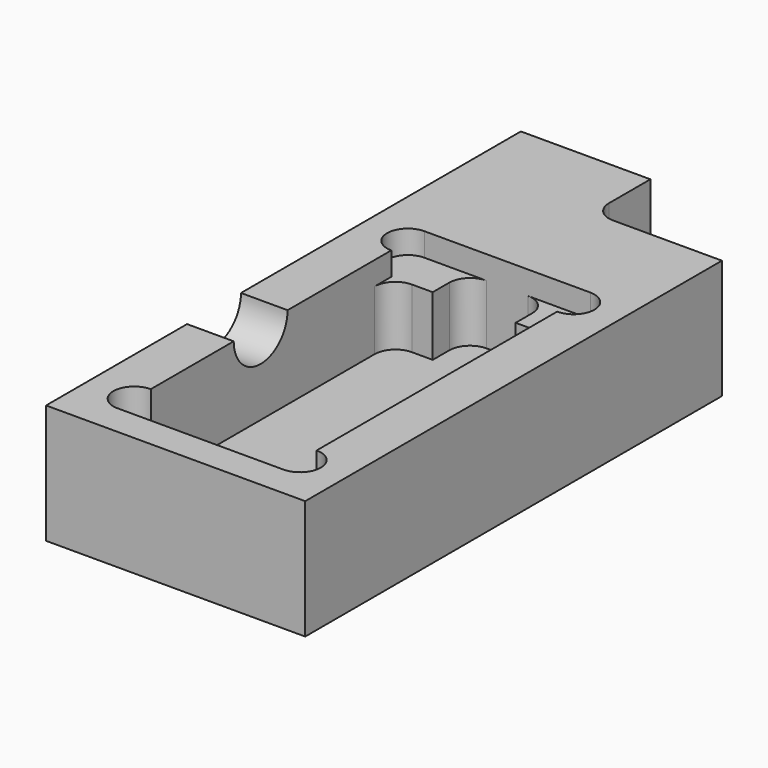
from build123d import *

# Parameters (mm, degrees)
F1_DEPTH = 23
F3_DEPTH = 4.5
F5_DEPTH = 11.5
F6_R     = 6.5
F7_DEPTH = 9


with BuildPart() as f1:
    # F0 (on Top) → F1 (new body)
    with BuildSketch(Plane.XY):
        with BuildLine():
            Line((0, 114.5), (0, 0))
            Line((0, 0), (50, 0))
            Line((50, 0), (50, 100.5))
            Line((50, 100.5), (29, 100.5))
            ThreePointArc((29, 100.5), (26.171573, 101.671573), (25, 104.5))
            Line((25, 104.5), (25, 114.5))
            Line((25, 114.5), (0, 114.5))
        make_face()
    extrude(amount=F1_DEPTH)

    # F2 (on face) → F3 (cut)
    with BuildSketch(Plane.XY.offset(23)):
        with BuildLine():
            Line((41, 80), (9, 80))
            ThreePointArc((9, 80), (5, 76), (9, 72))
            Line((9, 72), (9, 14))
            ThreePointArc((9, 14), (5, 10), (9, 6))
            Line((9, 6), (41, 6))
            ThreePointArc((41, 6), (45, 10), (41, 14))
            Line((41, 14), (41, 72))
            ThreePointArc((41, 72), (45, 76), (41, 80))
        make_face()
    extrude(amount=-F3_DEPTH, mode=Mode.SUBTRACT)

    # F4 (on face) → F5 (cut)
    with BuildSketch(Plane.XY.offset(18.5)):
        with BuildLine():
            Line((9, 68), (9, 14))
            ThreePointArc((9, 14), (5, 10), (9, 6))
            Line((9, 6), (41, 6))
            ThreePointArc((41, 6), (45, 10), (41, 14))
            Line((41, 14), (41, 68))
            ThreePointArc((41, 68), (39.828427, 70.828427), (37, 72))
            Line((37, 72), (33, 72))
            Line((33, 72), (33, 76))
            ThreePointArc((33, 76), (31.828427, 78.828427), (29, 80))
            Line((29, 80), (21, 80))
            ThreePointArc((21, 80), (18.171573, 78.828427), (17, 76))
            Line((17, 76), (17, 72))
            Line((17, 72), (13, 72))
            ThreePointArc((13, 72), (10.171573, 70.828427), (9, 68))
        make_face()
    extrude(amount=-F5_DEPTH, mode=Mode.SUBTRACT)

    # F6 (on face) → F7 (cut, through all)
    with BuildSketch(Plane(origin=(0, 0, 0), x_dir=(0, -1, 0), z_dir=(-1, 0, 0))):
        with Locations((-40.5, 23)):
            Circle(F6_R)
    extrude(amount=-F7_DEPTH, mode=Mode.SUBTRACT)


solid = f1.part
